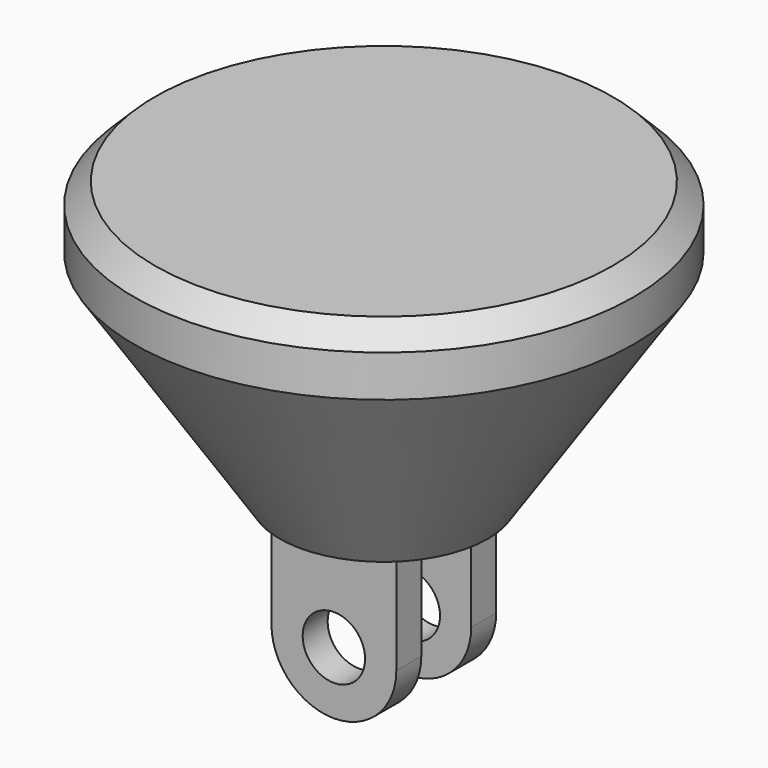
from build123d import *

# Parameters (mm, degrees)
F3_DEPTH = 6
F4_DEPTH = 3
F5_D     = 6
F5_DEPTH = 24.001
F6_D     = 6
F7_SIZE  = 2


with BuildPart() as f1:
    # F0 (on Front) → F1 (revolve)
    with BuildSketch(Plane.XZ):
        Polygon((0, 27), (0, 0), (10, 0), (24, 21), (24, 27), align=None)
    revolve(axis=Axis((0, 0, 13.5), (0, 0, 1)))

    # F2 (on Front) → F3 (join, symmetric)
    with BuildSketch(Plane.XZ):
        with BuildLine():
            Line((6, -10), (6, 0))
            Line((6, 0), (-6, 0))
            Line((-6, 0), (-6, -10))
            ThreePointArc((-6, -10), (0, -16), (6, -10))
        make_face()
    extrude(amount=F3_DEPTH, both=True)

    # F2 (on Front) → F4 (cut, symmetric)
    with BuildSketch(Plane.XZ):
        with BuildLine():
            Line((6, -10), (6, 0))
            Line((6, 0), (-6, 0))
            Line((-6, 0), (-6, -10))
            ThreePointArc((-6, -10), (0, -16), (6, -10))
        make_face()
    extrude(amount=F4_DEPTH, both=True, mode=Mode.SUBTRACT)

    # F5 (through all, one way)
    with BuildSketch(Plane.XZ):
        with Locations((0, -10)):
            Circle(F5_D / 2)
    extrude(amount=-F5_DEPTH, mode=Mode.SUBTRACT)

    # F6 (through all)
    with Locations(Plane(origin=(0, 0, 0), x_dir=(1, 0, 0), z_dir=(0, 1, 0))):
        with Locations((0, 10)):
            Hole(F6_D / 2)

    # F7
    f7_edges = [f1.edges().sort_by_distance(p)[0] for p in [
        (-24, 0, 27),
    ]]
    chamfer(f7_edges, length=F7_SIZE)


solid = f1.part
